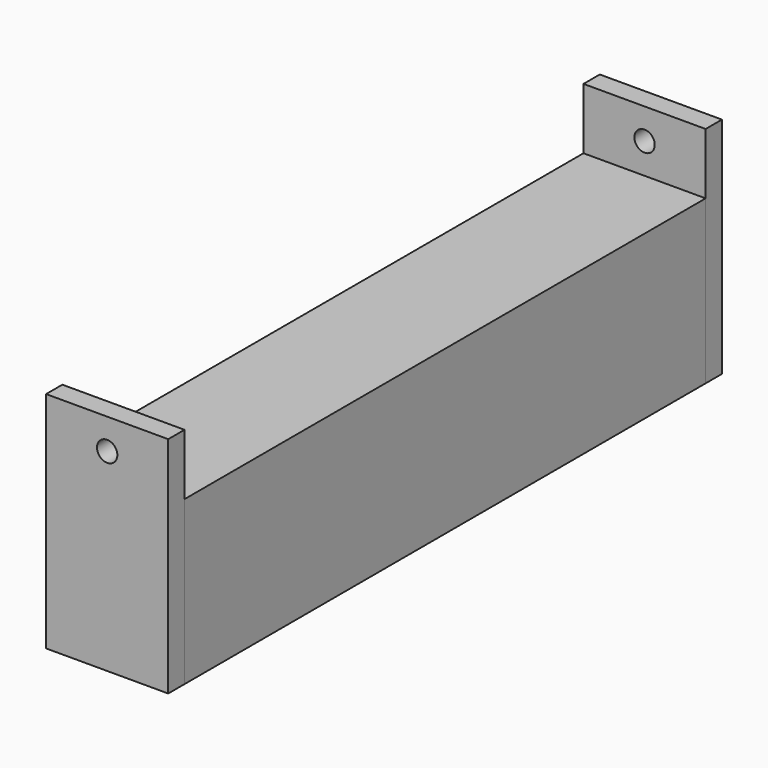
from build123d import *

# Parameters (mm, degrees)
F0_W     = 38.1
F0_H     = 50.8
F1_DEPTH = 203.2
F6_W     = 38.1
F6_H     = 69.85
F6_R     = 3.175
F7_DEPTH = 6.35


with BuildPart() as f1:
    # F0 (on Front) → F1 (new body)
    with BuildSketch(Plane.XZ):
        with Locations((19.05, 25.4)):
            Rectangle(F0_W, F0_H)
    extrude(amount=F1_DEPTH)


with BuildPart() as f7:
    # F6 (on face) → F7 (new body)
    with BuildSketch(Plane.XZ.offset(203.2)):
        with Locations((19.05, 34.925)):
            Rectangle(F6_W, F6_H)
        with Locations((19.05, 60.325)):
            Circle(F6_R, mode=Mode.SUBTRACT)
    extrude(amount=F7_DEPTH)


with BuildPart() as f8_1:
    # F8: instance of F7
    add(f7.part.mirror(Plane(origin=(0, -101.6, 50.8), x_dir=(1, 0, 0), z_dir=(0, -1, 0))))


solid = Compound([f1.part, f7.part, f8_1.part])
